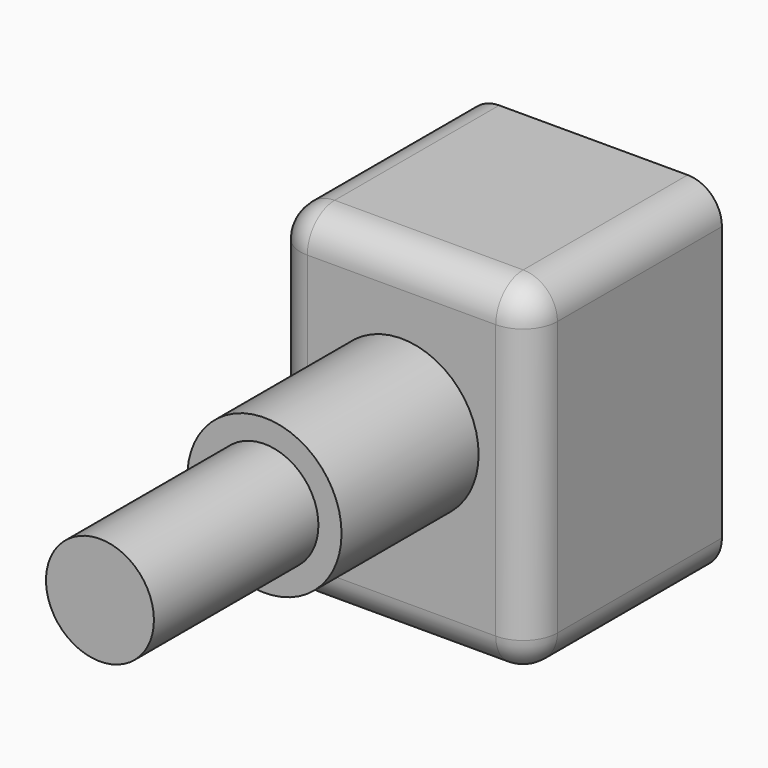
from build123d import *

# Parameters (mm, degrees)
SKETCH001_W  = 15
SKETCH001_H  = 20
PAD001_DEPTH = 14
SKETCH002_R  = 4.5
PAD002_DEPTH = 10
SKETCH003_R  = 3.15
PAD003_DEPTH = 12
FILLET_R     = 2


with BuildPart() as part:
    # Sketch001 → Pad001 (new body)
    with BuildSketch(Plane.XZ):
        Rectangle(SKETCH001_W, SKETCH001_H)
    extrude(amount=PAD001_DEPTH)

    # Sketch002 → Pad002 (join)
    with BuildSketch(Plane(origin=(0, -14, 1), x_dir=(1, 0, 0), z_dir=(0, -1, 0))):
        Circle(SKETCH002_R)
    extrude(amount=PAD002_DEPTH)

    # Sketch003 → Pad003 (join)
    with BuildSketch(Plane(origin=(0, -24, 1), x_dir=(1, 0, 0), z_dir=(0, -1, 0))):
        Circle(SKETCH003_R)
    extrude(amount=PAD003_DEPTH)

    # Fillet
    fillet_edges = [part.edges().sort_by_distance(p)[0] for p in [
        (-7.5, -7, 10),
        (0, -14, 10),
        (-7.5, -14, 0),
        (7.5, -14, 0),
        (-7.5, -7, -10),
        (0, -14, -10),
        (7.5, -7, -10),
        (7.5, -7, 10),
    ]]
    fillet(fillet_edges, radius=FILLET_R)


with BuildPart() as part_1:
    # Body001 placement: moved
    add(part.part.moved(Location((0, -413, 17))))


solid = part_1.part
